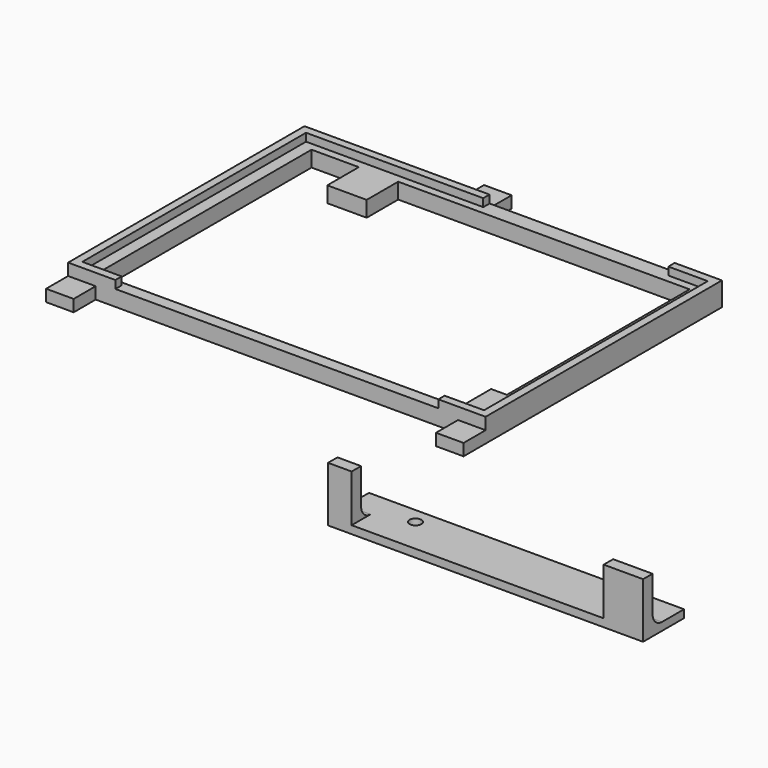
from build123d import *

# Parameters (mm, degrees)
F0_W      = 106
F0_H      = 75
F0_W_2    = 102
F0_H_2    = 71
F1_DEPTH  = 6
F2_W      = 102
F2_H      = 71
F3_DEPTH  = 4
F4_W      = 82
F4_H      = 2
F4_W_2    = 47
F5_DEPTH  = 2
F6_W      = 7
F6_H      = 7
F7_DEPTH  = 3
F8_W      = 80
F8_H      = 13
F8_R      = 1.5
F9_DEPTH  = 2
F10_W     = 10
F10_H     = 14
F10_W_2   = 6
F11_DEPTH = 3
F12_R     = 3


with BuildPart() as f1:
    # F0 (on Top) → F1 (new body)
    with BuildSketch(Plane.XY):
        Rectangle(F0_W, F0_H)
        Rectangle(F0_W_2, F0_H_2, mode=Mode.SUBTRACT)
    extrude(amount=F1_DEPTH)

    # F2 (on face) → F3 (join)
    with BuildSketch(Plane(origin=(0, 0, 0), x_dir=(1, 0, 0), z_dir=(0, 0, -1))):
        Rectangle(F2_W, F2_H)
        Polygon((-36, -33.5), (-48, -33.5), (-48, 34.5), (44, 34.5), (44, 24.5), (48, 24.5), (48, -33.5), (-26, -33.5), (-26, -23.5), (-36, -23.5), align=None, mode=Mode.SUBTRACT)
    extrude(amount=-F3_DEPTH)

    # F4 (on face) → F5 (cut)
    with BuildSketch(Plane.XY.offset(6)):
        with Locations((0, -36.5)):
            Rectangle(F4_W, F4_H)
        with Locations((17.5, 36.5)):
            Rectangle(F4_W_2, F4_H)
    extrude(amount=-F5_DEPTH, mode=Mode.SUBTRACT)

    # F6 (on face) → F7 (join)
    with BuildSketch(Plane(origin=(0, 0, 0), x_dir=(1, 0, 0), z_dir=(0, 0, -1))):
        with Locations((49.5, 41)):
            Rectangle(F6_W, F6_H)
        with Locations((-49.5, 41)):
            Rectangle(F6_W, F6_H)
        with Locations((-9.5, -41)):
            Rectangle(F6_W, F6_H)
    extrude(amount=-F7_DEPTH)


with BuildPart() as f9:
    # F8 (on Top) → F9 (new body)
    with BuildSketch(Plane.XY):
        with Locations((90.540446, -77.946569)):
            Rectangle(F8_W, F8_H)
        with Locations((65.540446, -75.446569)):
            Circle(F8_R, mode=Mode.SUBTRACT)
        with Locations((115.540446, -75.446569)):
            Circle(F8_R, mode=Mode.SUBTRACT)
    extrude(amount=F9_DEPTH)

    # F10 (on face) → F11 (join)
    with BuildSketch(Plane.XZ.offset(84.446569)):
        with Locations((125.540446, 7)):
            Rectangle(F10_W, F10_H)
        with Locations((53.540446, 7)):
            Rectangle(F10_W_2, F10_H)
    extrude(amount=-F11_DEPTH)

    # F12
    f12_edges = [f9.edges().sort_by_distance(p)[0] for p in [
        (53.540446, -81.446569, 2),
        (125.540446, -81.446569, 2),
    ]]
    fillet(f12_edges, radius=F12_R)


solid = Compound([f1.part, f9.part])
